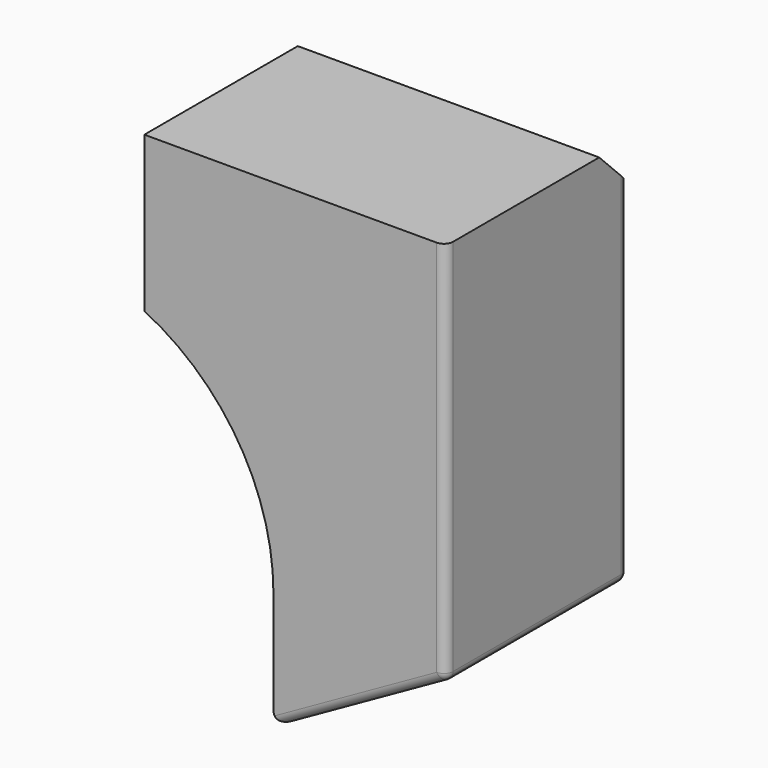
from build123d import *

# Parameters (mm, degrees)
PAD010_DEPTH    = 125
CHAMFER003_SIZE = 20
FILLET007_R     = 5


with BuildPart() as part:
    # Sketch014 → Pad010 (new body)
    with BuildSketch(Plane.XZ.offset(-215)):
        with BuildLine():
            Line((397.8, 325), (232.8, 325))
            Line((232.8, 325), (232.8, 240))
            ThreePointArc((303.474182, 126.999993), (284.350647, 193.640525), (232.8, 240))
            Line((303.474182, 61.999993), (303.474182, 126.999993))
            Line((397.8, 115), (303.474182, 61.999993))
            Line((397.8, 325), (397.8, 115))
        make_face()
    extrude(amount=-PAD010_DEPTH)

    # Chamfer003
    chamfer003_edges = [part.edges().sort_by_distance(p)[0] for p in [
        (315.3, 340, 325),
    ]]
    chamfer(chamfer003_edges, length=CHAMFER003_SIZE)

    # Fillet007
    fillet007_edges = [part.edges().sort_by_distance(p)[0] for p in [
        (397.8, 340, 210),
        (397.8, 277.5, 115),
        (350.637091, 340, 88.499996),
        (303.474182, 340, 94.499993),
        (284.350647, 340, 193.640525),
        (232.8, 340, 272.5),
        (397.8, 215, 220),
        (350.637091, 215, 88.499996),
        (303.474182, 277.5, 61.999993),
    ]]
    fillet(fillet007_edges, radius=FILLET007_R)


solid = part.part
